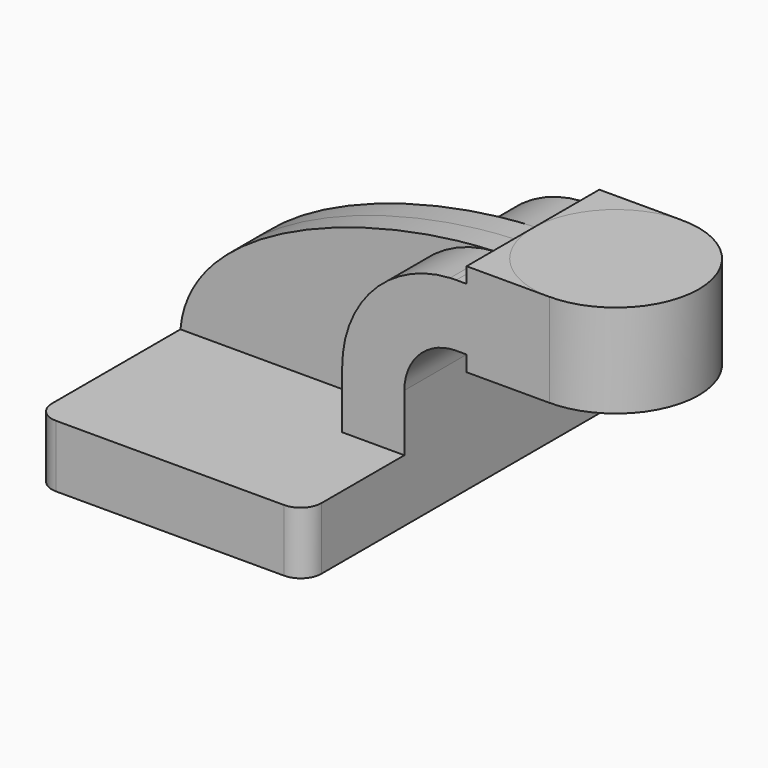
from build123d import *

# Parameters (mm, degrees)
F1_DEPTH = 63.5
F0_W     = 25.4
F0_H     = 4.7498
F2_DEPTH = 25.4
F3_DEPTH = 7.9375
F5_R     = 6.35


with BuildPart() as f1:
    # F0 (on Front) → F1 (new body, symmetric)
    with BuildSketch(Plane.XZ):
        Polygon((22.225, 9.525), (-41.275, 9.525), (-41.275, -9.525), (41.275, -9.525), (41.275, 9.525), align=None)
    extrude(amount=F1_DEPTH, both=True)

    # F0 (on Front) → F2 (join, symmetric)
    with BuildSketch(Plane.XZ):
        with BuildLine():
            Line((22.225, 27.0002), (22.225, 9.525))
            Line((22.225, 9.525), (41.275, 9.525))
            Line((41.275, 9.525), (41.275, 27.0002))
            ThreePointArc((41.275, 27.0002), (45.9246798487, 38.2255201513), (57.15, 42.8752))
            Line((57.15, 42.8752), (60.325, 42.8752))
            Line((60.325, 42.8752), (60.325, 61.9252))
            Line((60.325, 61.9252), (57.15, 61.9252))
            add(Edge.make_bspline(
                [(55.2920610912, 61.875745702), (55.9158793834, 61.8968482356), (56.5352906086, 61.9133390458), (57.15, 61.9252)],
                knots=[109.7267842617, 109.7267842617, 109.7267842617, 109.7267842617, 111.5045361635, 111.5045361635, 111.5045361635, 111.5045361635], degree=3))
            ThreePointArc((55.2920610912, 61.875745702), (31.80592632, 51.0300471553), (22.225, 27.0002))
        make_face()
        Polygon((85.725, 61.9252), (60.325, 61.9252), (60.325, 42.8752), (60.325, 38.1), (85.725, 38.1), align=None)
        with Locations((73.025, 64.3001)):
            Rectangle(F0_W, F0_H)
    extrude(amount=F2_DEPTH, both=True)

    # F0 (on Front) → F3 (join, symmetric)
    with BuildSketch(Plane.XZ):
        with BuildLine():
            add(Edge.make_bspline(
                [(-41.275, 9.525), (-38.5041339156, 41.7017871953), (16.7886146349, 60.5732505935), (55.2920610912, 61.875745702)],
                knots=[0, 0, 0, 0, 109.7267842617, 109.7267842617, 109.7267842617, 109.7267842617], degree=3))
            Line((-41.275, 9.525), (22.225, 9.525))
            Line((22.225, 9.525), (22.225, 27.0002))
            ThreePointArc((22.225, 27.0002), (31.80592632, 51.0300471553), (55.2920610912, 61.875745702))
        make_face()
    extrude(amount=F3_DEPTH, both=True)

    # F5
    f5_edges = [f1.edges().sort_by_distance(p)[0] for p in [
        (41.275, -63.5, 0),
        (-41.275, -63.5, 0),
        (-41.275, 63.5, 0),
        (41.275, 63.5, 0),
    ]]
    fillet(f5_edges, radius=F5_R)


with BuildPart() as f4:
    # F0 (on Front) → F4 (revolve)
    with BuildSketch(Plane.XZ):
        Polygon((85.725, 66.675), (85.725, 61.9252), (85.725, 38.1), (111.125, 38.1), (111.125, 66.675), align=None)
    revolve(axis=Axis((85.725, 0, 52.3875), (0, 0, 1)))


solid = Compound([f1.part, f4.part])
